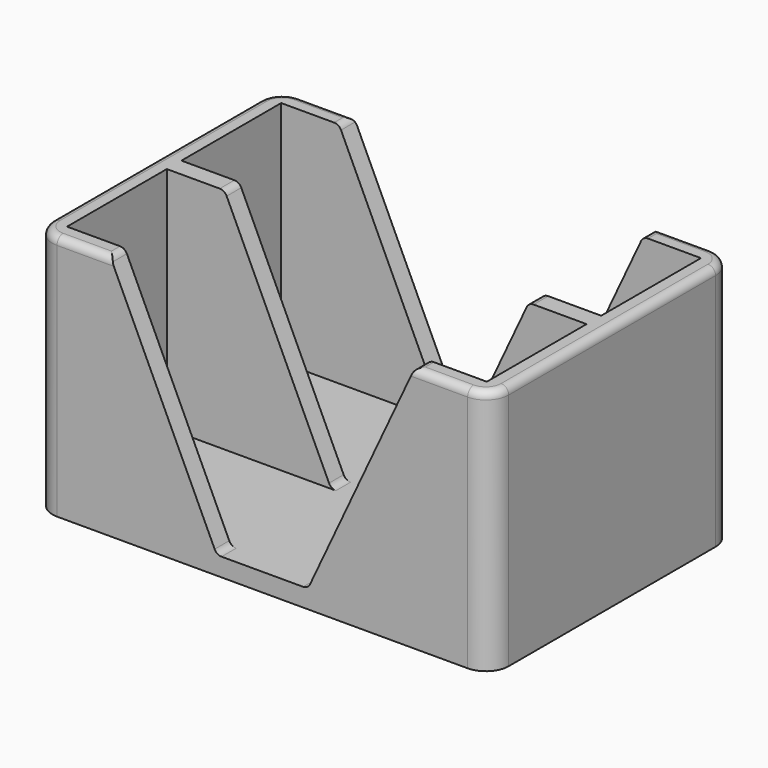
from build123d import *

# Parameters (mm, degrees)
F0_W      = 60
F0_H      = 40
F1_DEPTH  = 2.4
F3_DEPTH  = 1.2
F13_DEPTH = 30
F14_R     = 3
F15_R     = 1


with BuildPart() as f1:
    # F0 (on Top) → F1 (new body)
    with BuildSketch(Plane.XY):
        Rectangle(F0_W, F0_H)
    extrude(amount=-F1_DEPTH)



with BuildPart() as f3:
    # F2 (on Front) → F3 (new body, symmetric)
    with BuildSketch(Plane.XZ):
        Polygon((-30, 30), (-30, 0), (-6, 0), (-20, 30), align=None)
    extrude(amount=F3_DEPTH, both=True)


with BuildPart() as f3b:
    # F2 (on Front) → F3, piece 2 (new body, symmetric)
    with BuildSketch(Plane.XZ):
        Polygon((6, 0), (30, 0), (30, 30), (20, 30), align=None)
    extrude(amount=F3_DEPTH, both=True)


with BuildPart() as f4_1:
    # F4: copy of F3
    add(f3.part.moved(Location((0, 18.8, 0))))


with BuildPart() as f5_1:
    # F5: copy of F3
    add(f3.part.moved(Location((0, -18.8, 0))))


with BuildPart() as f6_1:
    # F6: copy of F3b
    add(f3b.part.moved(Location((0, 18.8, 0))))


with BuildPart() as f7_1:
    # F7: copy of F3b
    add(f3b.part.moved(Location((0, -18.8, 0))))


with BuildPart() as f8_1:
    # F8: copy of F3
    add(f3.part.moved(Location((2.4, 0, 0))))


with BuildPart() as f8_2:
    # F8: copy of F5_1
    add(f5_1.part.moved(Location((2.4, 0, 0))))


with BuildPart() as f8_3:
    # F8: copy of F4_1
    add(f4_1.part.moved(Location((2.4, 0, 0))))


with BuildPart() as f1_1:
    add(f1.part)

    add(f3.part)  # F13 merges F3

    add(f3b.part)  # F13 merges F3b

    add(f4_1.part)  # F13 merges F4_1

    add(f5_1.part)  # F13 merges F5_1

    add(f6_1.part)  # F13 merges F6_1

    add(f7_1.part)  # F13 merges F7_1
    # F12 (on face) → F13 (join)
    with BuildSketch(Plane.XY):
        Polygon((27.6, 17.6), (27.6, -17.6), (27.6, -20), (30, -20), (30, 20), (27.6, 20), align=None)
        Polygon((-27.6, -20), (-27.6, -17.6), (-27.6, 17.6), (-27.6, 20), (-30, 20), (-30, -20), align=None)
    extrude(amount=F13_DEPTH)

    # F14
    f14_edges = [f1_1.edges().sort_by_distance(p)[0] for p in [
        (30, -20, 13.8),
        (-30, -20, 13.8),
        (-30, 20, 13.8),
        (30, 20, 13.8),
    ]]
    fillet(f14_edges, radius=F14_R)

    # F15
    f15_edges = [f1_1.edges().sort_by_distance(p)[0] for p in [
        (20, 18.8, 30),
        (20, 0, 30),
        (20, -18.8, 30),
        (6, 18.8, 0),
        (6, 0, 0),
        (6, -18.8, 0),
        (-20, 18.8, 30),
        (-20, 0, 30),
        (-20, -18.8, 30),
        (-6, -18.8, 0),
        (-6, 0, 0),
        (-6, 18.8, 0),
        (30, 0, 30),
        (-30, 0, 30),
    ]]
    fillet(f15_edges, radius=F15_R)


solid = f1_1.part
